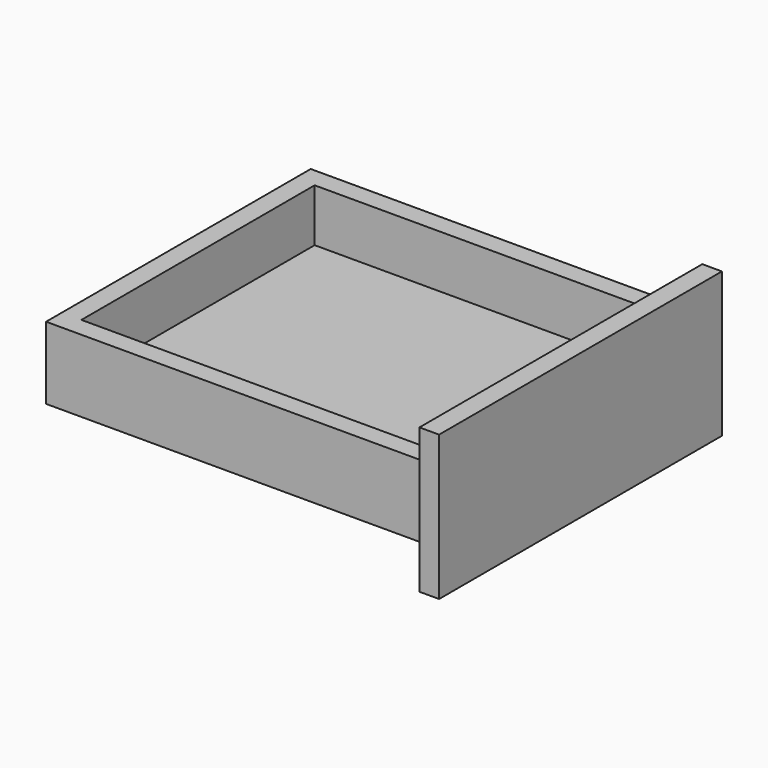
from build123d import *

# Parameters (mm, degrees)
F1_W     = 370
F1_H     = 320
F1_W_2   = 332
F1_H_2   = 282
F2_DEPTH = 70
F0_W     = 370
F0_H     = 320
F3_DEPTH = 19
F4_W     = 342
F4_H     = 140
F4_W_2   = 320
F4_H_2   = 70
F5_DEPTH = 19


with BuildPart() as f2:
    # F1 (on face) → F2 (new body)
    with BuildSketch(Plane.XY):
        Rectangle(F1_W, F1_H)
        Rectangle(F1_W_2, F1_H_2, mode=Mode.SUBTRACT)
    extrude(amount=F2_DEPTH)

    # F0 (on Top) → F3 (join)
    with BuildSketch(Plane.XY):
        Rectangle(F0_W, F0_H)
    extrude(amount=F3_DEPTH)

    # F4 (on face) → F5 (join)
    with BuildSketch(Plane.YZ.offset(185)):
        with Locations((0, 34.795675)):
            Rectangle(F4_W, F4_H)
        with Locations((0, 35)):
            Rectangle(F4_W_2, F4_H_2, mode=Mode.SUBTRACT)
        with Locations((0, 35)):
            Rectangle(F4_W_2, F4_H_2)
    extrude(amount=F5_DEPTH)


solid = f2.part
